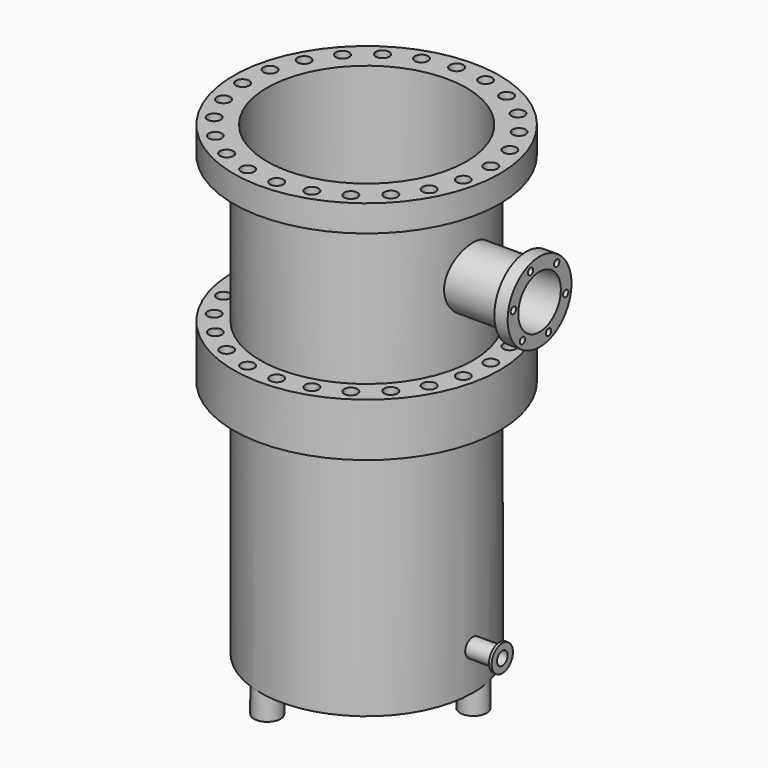
from build123d import *

# Parameters (mm, degrees)
F0_R           = 127
F0_R_2         = 6.35
F0_R_3         = 101.6
F1_DEPTH       = 25.4
F2_R           = 101.6
F2_R_2         = 95.25
F3_DEPTH       = 165.1
F3_DEPTH_BACK  = 25.4
F4_R           = 127
F4_R_2         = 6.35
F4_R_3         = 101.6
F5_DEPTH       = 25.4
F6_R           = 127
F6_R_2         = 6.35
F6_R_3         = 95.25
F7_DEPTH       = 25.4
F8_R           = 101.6
F8_R_2         = 95.25
F9_DEPTH       = 203.2
F10_R          = 101.6
F11_DEPTH      = 25.4
F12_R          = 12.7
F13_DEPTH      = 25.4
F15_R          = 29.21
F15_R_2        = 25.4
F16_DEPTH      = 31.75
F16_DEPTH_BACK = 25.4
F17_DEPTH      = 101.6
F18_R          = 38.1
F18_R_2        = 3.175
F18_R_3        = 25.4
F19_DEPTH      = 12.7
F20_R          = 8.89
F20_R_2        = 6.35
F21_DEPTH      = 31.75
F22_R          = 12.7
F22_R_2        = 6.35
F23_DEPTH      = 2.54
F24_DEPTH      = 38.1


with BuildPart() as f1:
    # F0 (on Top) → F1 (new body)
    with BuildSketch(Plane.XY):
        Circle(F0_R)
        with Locations((-76.895635063, -84.566845207)):
            Circle(F0_R_2, mode=Mode.SUBTRACT)
        with Locations((-52.3879697124, -101.5873546728)):
            Circle(F0_R_2, mode=Mode.SUBTRACT)
        with Locations((-24.3101508012, -111.6848537986)):
            Circle(F0_R_2, mode=Mode.SUBTRACT)
        with Locations((-96.16298996, -61.7832449936)):
            Circle(F0_R_2, mode=Mode.SUBTRACT)
        with Locations((-108.8769960082, -34.7892187356)):
            Circle(F0_R_2, mode=Mode.SUBTRACT)
        with Locations((-114.1712147061, -5.4243647127)):
            Circle(F0_R_2, mode=Mode.SUBTRACT)
        with Locations((5.4243647127, -114.1712147061)):
            Circle(F0_R_2, mode=Mode.SUBTRACT)
        with Locations((34.7892187356, -108.8769960082)):
            Circle(F0_R_2, mode=Mode.SUBTRACT)
        with Locations((61.7832449936, -96.16298996)):
            Circle(F0_R_2, mode=Mode.SUBTRACT)
        with Locations((84.566845207, -76.895635063)):
            Circle(F0_R_2, mode=Mode.SUBTRACT)
        with Locations((101.5873546728, -52.3879697124)):
            Circle(F0_R_2, mode=Mode.SUBTRACT)
        with Locations((111.6848537986, -24.3101508012)):
            Circle(F0_R_2, mode=Mode.SUBTRACT)
        with Locations((-111.6848537986, 24.3101508012)):
            Circle(F0_R_2, mode=Mode.SUBTRACT)
        with Locations((-101.5873546728, 52.3879697124)):
            Circle(F0_R_2, mode=Mode.SUBTRACT)
        with Locations((-84.566845207, 76.895635063)):
            Circle(F0_R_2, mode=Mode.SUBTRACT)
        with Locations((-61.7832449936, 96.16298996)):
            Circle(F0_R_2, mode=Mode.SUBTRACT)
        with Locations((-34.7892187356, 108.8769960082)):
            Circle(F0_R_2, mode=Mode.SUBTRACT)
        with Locations((-5.4243647127, 114.1712147061)):
            Circle(F0_R_2, mode=Mode.SUBTRACT)
        Circle(F0_R_3, mode=Mode.SUBTRACT)
        with Locations((114.1712147061, 5.4243647127)):
            Circle(F0_R_2, mode=Mode.SUBTRACT)
        with Locations((108.8769960082, 34.7892187356)):
            Circle(F0_R_2, mode=Mode.SUBTRACT)
        with Locations((96.16298996, 61.7832449936)):
            Circle(F0_R_2, mode=Mode.SUBTRACT)
        with Locations((24.3101508012, 111.6848537986)):
            Circle(F0_R_2, mode=Mode.SUBTRACT)
        with Locations((52.3879697124, 101.5873546728)):
            Circle(F0_R_2, mode=Mode.SUBTRACT)
        with Locations((76.895635063, 84.566845207)):
            Circle(F0_R_2, mode=Mode.SUBTRACT)
    extrude(amount=F1_DEPTH)

    # F2 (on face) → F3 (join, two sides)
    with BuildSketch(Plane(origin=(0, 0, 0), x_dir=(1, 0, 0), z_dir=(0, 0, -1))) as f3_sk:
        Circle(F2_R)
        Circle(F2_R_2, mode=Mode.SUBTRACT)
    extrude(amount=F3_DEPTH)
    extrude(f3_sk.sketch, amount=-F3_DEPTH_BACK)

    # F4 (on face) → F5 (join)
    with BuildSketch(Plane(origin=(0, 0, -165.1), x_dir=(1, 0, 0), z_dir=(0, 0, -1))):
        Circle(F4_R)
        with Locations((-84.566845207, -76.895635063)):
            Circle(F4_R_2, mode=Mode.SUBTRACT)
        with Locations((-61.7832449936, -96.16298996)):
            Circle(F4_R_2, mode=Mode.SUBTRACT)
        with Locations((-34.7892187356, -108.8769960082)):
            Circle(F4_R_2, mode=Mode.SUBTRACT)
        with Locations((-5.4243647127, -114.1712147061)):
            Circle(F4_R_2, mode=Mode.SUBTRACT)
        with Locations((-101.5873546728, -52.3879697124)):
            Circle(F4_R_2, mode=Mode.SUBTRACT)
        with Locations((-111.6848537986, -24.3101508012)):
            Circle(F4_R_2, mode=Mode.SUBTRACT)
        with Locations((24.3101508012, -111.6848537986)):
            Circle(F4_R_2, mode=Mode.SUBTRACT)
        with Locations((52.3879697124, -101.5873546728)):
            Circle(F4_R_2, mode=Mode.SUBTRACT)
        with Locations((76.895635063, -84.566845207)):
            Circle(F4_R_2, mode=Mode.SUBTRACT)
        with Locations((96.16298996, -61.7832449936)):
            Circle(F4_R_2, mode=Mode.SUBTRACT)
        with Locations((108.8769960082, -34.7892187356)):
            Circle(F4_R_2, mode=Mode.SUBTRACT)
        with Locations((114.1712147061, -5.4243647127)):
            Circle(F4_R_2, mode=Mode.SUBTRACT)
        with Locations((-114.1712147061, 5.4243647127)):
            Circle(F4_R_2, mode=Mode.SUBTRACT)
        with Locations((-108.8769960082, 34.7892187356)):
            Circle(F4_R_2, mode=Mode.SUBTRACT)
        with Locations((-96.16298996, 61.7832449936)):
            Circle(F4_R_2, mode=Mode.SUBTRACT)
        with Locations((-76.895635063, 84.566845207)):
            Circle(F4_R_2, mode=Mode.SUBTRACT)
        with Locations((-52.3879697124, 101.5873546728)):
            Circle(F4_R_2, mode=Mode.SUBTRACT)
        with Locations((-24.3101508012, 111.6848537986)):
            Circle(F4_R_2, mode=Mode.SUBTRACT)
        Circle(F4_R_3, mode=Mode.SUBTRACT)
        with Locations((111.6848537986, 24.3101508012)):
            Circle(F4_R_2, mode=Mode.SUBTRACT)
        with Locations((101.5873546728, 52.3879697124)):
            Circle(F4_R_2, mode=Mode.SUBTRACT)
        with Locations((5.4243647127, 114.1712147061)):
            Circle(F4_R_2, mode=Mode.SUBTRACT)
        with Locations((34.7892187356, 108.8769960082)):
            Circle(F4_R_2, mode=Mode.SUBTRACT)
        with Locations((61.7832449936, 96.16298996)):
            Circle(F4_R_2, mode=Mode.SUBTRACT)
        with Locations((84.566845207, 76.895635063)):
            Circle(F4_R_2, mode=Mode.SUBTRACT)
    extrude(amount=-F5_DEPTH)

    # F6 (on face) → F7 (join)
    with BuildSketch(Plane(origin=(0, 0, -165.1), x_dir=(1, 0, 0), z_dir=(0, 0, -1))):
        Circle(F6_R)
        with Locations((-84.566845207, -76.895635063)):
            Circle(F6_R_2, mode=Mode.SUBTRACT)
        with Locations((-61.7832449936, -96.16298996)):
            Circle(F6_R_2, mode=Mode.SUBTRACT)
        with Locations((-34.7892187356, -108.8769960082)):
            Circle(F6_R_2, mode=Mode.SUBTRACT)
        with Locations((-5.4243647127, -114.1712147061)):
            Circle(F6_R_2, mode=Mode.SUBTRACT)
        with Locations((-101.5873546728, -52.3879697124)):
            Circle(F6_R_2, mode=Mode.SUBTRACT)
        with Locations((-111.6848537986, -24.3101508012)):
            Circle(F6_R_2, mode=Mode.SUBTRACT)
        with Locations((24.3101508012, -111.6848537986)):
            Circle(F6_R_2, mode=Mode.SUBTRACT)
        with Locations((52.3879697124, -101.5873546728)):
            Circle(F6_R_2, mode=Mode.SUBTRACT)
        with Locations((76.895635063, -84.566845207)):
            Circle(F6_R_2, mode=Mode.SUBTRACT)
        with Locations((96.16298996, -61.7832449936)):
            Circle(F6_R_2, mode=Mode.SUBTRACT)
        with Locations((108.8769960082, -34.7892187356)):
            Circle(F6_R_2, mode=Mode.SUBTRACT)
        with Locations((114.1712147061, -5.4243647127)):
            Circle(F6_R_2, mode=Mode.SUBTRACT)
        with Locations((-114.1712147061, 5.4243647127)):
            Circle(F6_R_2, mode=Mode.SUBTRACT)
        with Locations((-108.8769960082, 34.7892187356)):
            Circle(F6_R_2, mode=Mode.SUBTRACT)
        with Locations((-96.16298996, 61.7832449936)):
            Circle(F6_R_2, mode=Mode.SUBTRACT)
        with Locations((-76.895635063, 84.566845207)):
            Circle(F6_R_2, mode=Mode.SUBTRACT)
        with Locations((-52.3879697124, 101.5873546728)):
            Circle(F6_R_2, mode=Mode.SUBTRACT)
        with Locations((-24.3101508012, 111.6848537986)):
            Circle(F6_R_2, mode=Mode.SUBTRACT)
        Circle(F6_R_3, mode=Mode.SUBTRACT)
        with Locations((111.6848537986, 24.3101508012)):
            Circle(F6_R_2, mode=Mode.SUBTRACT)
        with Locations((101.5873546728, 52.3879697124)):
            Circle(F6_R_2, mode=Mode.SUBTRACT)
        with Locations((5.4243647127, 114.1712147061)):
            Circle(F6_R_2, mode=Mode.SUBTRACT)
        with Locations((34.7892187356, 108.8769960082)):
            Circle(F6_R_2, mode=Mode.SUBTRACT)
        with Locations((61.7832449936, 96.16298996)):
            Circle(F6_R_2, mode=Mode.SUBTRACT)
        with Locations((84.566845207, 76.895635063)):
            Circle(F6_R_2, mode=Mode.SUBTRACT)
    extrude(amount=F7_DEPTH)

    # F8 (on face) → F9 (join)
    with BuildSketch(Plane(origin=(0, 0, -190.5), x_dir=(1, 0, 0), z_dir=(0, 0, -1))):
        Circle(F8_R)
        Circle(F8_R_2, mode=Mode.SUBTRACT)
    extrude(amount=F9_DEPTH)

    # F10 (on face) → F11 (join)
    with BuildSketch(Plane(origin=(0, 0, -393.7), x_dir=(1, 0, 0), z_dir=(0, 0, -1))):
        Circle(F10_R)
    extrude(amount=F11_DEPTH)

    # F12 (on face) → F13 (join)
    with BuildSketch(Plane(origin=(0, 0, -419.1), x_dir=(1, 0, 0), z_dir=(0, 0, -1))):
        with Locations((-27.1833720778, 84.6522257003)):
            Circle(F12_R)
        with Locations((-59.7192919045, -65.8676036301)):
            Circle(F12_R)
        with Locations((86.9026639823, -18.7846220703)):
            Circle(F12_R)
    extrude(amount=F13_DEPTH)

    # F15 (on offset) → F16 (join, two sides)
    with BuildSketch(Plane.YZ.offset(127)) as f16_sk:
        with Locations((0, -69.85)):
            Circle(F15_R)
        with Locations((0, -69.85)):
            Circle(F15_R_2, mode=Mode.SUBTRACT)
    extrude(amount=-F16_DEPTH)
    extrude(f16_sk.sketch, amount=F16_DEPTH_BACK)

    # F15 (on offset) → F17 (cut)
    with BuildSketch(Plane.YZ.offset(127)):
        with Locations((0, -69.85)):
            Circle(F15_R_2)
    extrude(amount=-F17_DEPTH, mode=Mode.SUBTRACT)

    # F18 (on face) → F19 (join)
    with BuildSketch(Plane.YZ.offset(152.4)):
        with Locations((0, -69.85)):
            Circle(F18_R)
        with Locations((-20.4765825251, -94.1146258594)):
            Circle(F18_R_2, mode=Mode.SUBTRACT)
        with Locations((10.775491145, -99.7155535791)):
            Circle(F18_R_2, mode=Mode.SUBTRACT)
        with Locations((31.2520736701, -75.4509277197)):
            Circle(F18_R_2, mode=Mode.SUBTRACT)
        with Locations((-31.2520736701, -64.2490722803)):
            Circle(F18_R_2, mode=Mode.SUBTRACT)
        with Locations((-10.775491145, -39.9844464209)):
            Circle(F18_R_2, mode=Mode.SUBTRACT)
        with Locations((0, -69.85)):
            Circle(F18_R_3, mode=Mode.SUBTRACT)
        with Locations((20.4765825251, -45.5853741406)):
            Circle(F18_R_2, mode=Mode.SUBTRACT)
    extrude(amount=F19_DEPTH)

    # F20 (on offset) → F21 (join)
    with BuildSketch(Plane.YZ.offset(127)):
        with Locations((0, -381)):
            Circle(F20_R)
        with Locations((0, -381)):
            Circle(F20_R_2, mode=Mode.SUBTRACT)
    extrude(amount=-F21_DEPTH)

    # F22 (on face) → F23 (join)
    with BuildSketch(Plane.YZ.offset(127)):
        with Locations((0, -381)):
            Circle(F22_R)
        with Locations((0, -381)):
            Circle(F22_R_2, mode=Mode.SUBTRACT)
    extrude(amount=F23_DEPTH)

    # F22 (on face) → F24 (cut)
    with BuildSketch(Plane.YZ.offset(127)):
        with Locations((0, -381)):
            Circle(F22_R_2)
    extrude(amount=-F24_DEPTH, mode=Mode.SUBTRACT)


solid = f1.part
